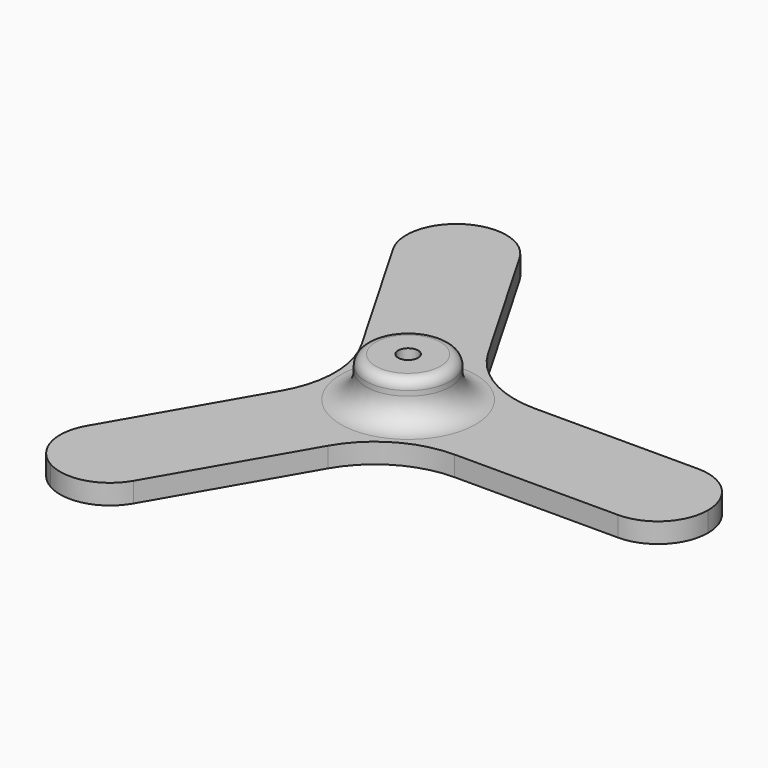
from build123d import *

# Parameters (mm, degrees)
CYLINDER_R        = 1
CYLINDER_DEPTH    = 10
CYLINDER001_R     = 4.25
CYLINDER001_DEPTH = 6
BOX_W             = 30
BOX_H             = 10
BOX_DEPTH         = 2
ARRAY_COUNT       = 3
FILLET_1_R        = 10
FILLET_2_R        = 4.99
FILLET001_1_R     = 2.5
FILLET001_2_R     = 1


with BuildPart() as hueco_eje_central:
    # Cylinder → Cylinder (new body)
    with BuildSketch(Plane.XY.offset(-2)):
        Circle(CYLINDER_R)
    extrude(amount=CYLINDER_DEPTH)


with BuildPart() as cilindro_base_soporte:
    # Cylinder001 → Cylinder001 (new body)
    with BuildSketch(Plane.XY):
        Circle(CYLINDER001_R)
    extrude(amount=CYLINDER001_DEPTH)


with BuildPart() as obj1:
    # Box → Box (new body)
    with BuildSketch(Plane(origin=(0, -5, 0), x_dir=(1, 0, 0), z_dir=(0, 0, 1))):
        with Locations((15, 5)):
            Rectangle(BOX_W, BOX_H)
    extrude(amount=BOX_DEPTH)

    # Array: obj1 ×3 about axis
    array_axis = Axis((0, 0, 0), (0, 0, 1))


with BuildPart() as obj1_1:
    add(obj1.part)
    for i in range(1, ARRAY_COUNT):
        add(obj1.part.rotate(array_axis, i * 360 / ARRAY_COUNT))

    # Fillet 1
    fillet_1_edges = [obj1_1.edges().sort_by_distance(p)[0] for p in [
        (2.886751, -5, 1),
        (2.886751, 5, 1),
        (-5.773503, 0, 1),
    ]]
    fillet(fillet_1_edges, radius=FILLET_1_R)

    # Fillet 2
    fillet_2_edges = [obj1_1.edges().sort_by_distance(p)[0] for p in [
        (30, -5, 1),
        (30, 5, 1),
        (-10.669873, -28.480762, 1),
        (-10.669873, 28.480762, 1),
        (-19.330127, -23.480762, 1),
        (-19.330127, 23.480762, 1),
    ]]
    fillet(fillet_2_edges, radius=FILLET_2_R)

    # Fusion001: union Cilindro base soporte
    add(cilindro_base_soporte.part)

    # Fillet001 1
    fillet001_1_edges = [obj1_1.edges().sort_by_distance(p)[0] for p in [
        (-4.25, 0, 2),
    ]]
    fillet(fillet001_1_edges, radius=FILLET001_1_R)

    # Fillet001 2
    fillet001_2_edges = [obj1_1.edges().sort_by_distance(p)[0] for p in [
        (-4.25, 0, 6),
    ]]
    fillet(fillet001_2_edges, radius=FILLET001_2_R)

    # Cut: cut hueco eje central
    add(hueco_eje_central.part, mode=Mode.SUBTRACT)


solid = obj1_1.part
